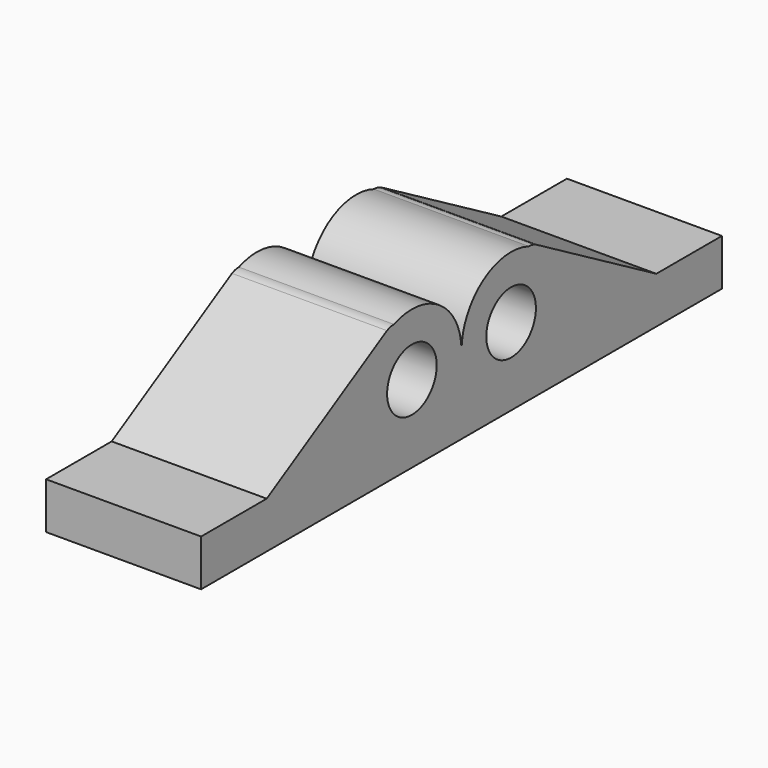
from build123d import *

# Parameters (mm, degrees)
CYLINDER033_R             = 2
CYLINDER033_DEPTH         = 10
CYLINDER031_R             = 2
CYLINDER031_DEPTH         = 10
CYLINDER032_R             = 1
CYLINDER032_DEPTH         = 10
BOX031_W                  = 3
BOX031_H                  = 20
BOX031_DEPTH              = 10
BOX032_W                  = 1
BOX032_H                  = 15
BOX032_DEPTH              = 10
BOX032_PLACEMENT_ANGLE    = 30
BOX033_W                  = 3.3
BOX033_H                  = 8
BOX033_DEPTH              = 10
BOX033_PLACEMENT_ANGLE    = 30
CYLINDER029_R             = 2
CYLINDER029_DEPTH         = 10
CYLINDER030_R             = 4
CYLINDER030_DEPTH         = 10
FUSION024_PLACEMENT_ANGLE = 180
CYLINDER027_R             = 2
CYLINDER027_DEPTH         = 10
CYLINDER028_R             = 1
CYLINDER028_DEPTH         = 10
BOX028_W                  = 3
BOX028_H                  = 22
BOX028_DEPTH              = 10
BOX029_W                  = 1
BOX029_H                  = 15
BOX029_DEPTH              = 10
BOX029_PLACEMENT_ANGLE    = 30
BOX030_W                  = 3.3
BOX030_H                  = 8
BOX030_DEPTH              = 10
BOX030_PLACEMENT_ANGLE    = 30
CYLINDER025_R             = 2
CYLINDER025_DEPTH         = 10
CYLINDER026_R             = 4
CYLINDER026_DEPTH         = 10
FUSION026_PITCH_ANGLE     = 90


with BuildPart() as zylinder024:
    # Cylinder033 → Cylinder033 (new body)
    with BuildSketch(Plane(origin=(2, -7, 0), x_dir=(1, 0, 0), z_dir=(0, 0, 1))):
        Circle(CYLINDER033_R)
    extrude(amount=CYLINDER033_DEPTH)


with BuildPart() as zylinder022:
    # Cylinder031 → Cylinder031 (new body)
    with BuildSketch(Plane(origin=(2, -15, 0), x_dir=(1, 0, 0), z_dir=(0, 0, 1))):
        Circle(CYLINDER031_R)
    extrude(amount=CYLINDER031_DEPTH)


with BuildPart() as zylinder023:
    # Cylinder032 → Cylinder032 (new body)
    with BuildSketch(Plane(origin=(-2.73, -12.5, 0), x_dir=(1, 0, 0), z_dir=(0, 0, 1))):
        Circle(CYLINDER032_R)
    extrude(amount=CYLINDER032_DEPTH)


with BuildPart() as obj1:
    # Box031 → Box031 (new body)
    with BuildSketch(Plane(origin=(2, -28, 0), x_dir=(1, 0, 0), z_dir=(0, 0, 1))):
        with Locations((1.5, 10)):
            Rectangle(BOX031_W, BOX031_H)
    extrude(amount=BOX031_DEPTH)


with BuildPart() as obj2:
    # Box032 → Box032 (new body)
    with BuildSketch(Plane.XY):
        with Locations((0.5, 7.5)):
            Rectangle(BOX032_W, BOX032_H)
    extrude(amount=BOX032_DEPTH)


with BuildPart() as obj2_1:
    # Box032 placement: moved
    add(obj2.part.moved(Location((3.9, -26, 0))).rotate(Axis((3.9, -26, 0), (0, 0, 1)), BOX032_PLACEMENT_ANGLE))


with BuildPart() as obj3:
    # Box033 → Box033 (new body)
    with BuildSketch(Plane.XY):
        with Locations((1.65, 4)):
            Rectangle(BOX033_W, BOX033_H)
    extrude(amount=BOX033_DEPTH)


with BuildPart() as obj3_1:
    # Box033 placement: moved
    add(obj3.part.moved(Location((2, -21.5, 0))).rotate(Axis((2, -21.5, 0), (0, 0, 1)), BOX033_PLACEMENT_ANGLE))


with BuildPart() as zylinder020:
    # Cylinder029 → Cylinder029 (new body)
    with BuildSketch(Plane.XY):
        Circle(CYLINDER029_R)
    extrude(amount=CYLINDER029_DEPTH)


with BuildPart() as fusion024:
    # Cylinder030 → Cylinder030 (new body)
    with BuildSketch(Plane.XY):
        Circle(CYLINDER030_R)
    extrude(amount=CYLINDER030_DEPTH)

    # Cut010: cut Zylinder020
    add(zylinder020.part, mode=Mode.SUBTRACT)


with BuildPart() as fusion024_1:
    # Cut010 placement: moved
    add(fusion024.part.moved(Location((0, -11, 0))))

    # Fusion024: union Zylinder022, Zylinder023, obj1, obj2, obj3
    add(zylinder022.part)
    add(zylinder023.part)
    add(obj1.part)
    add(obj2_1.part)
    add(obj3_1.part)


with BuildPart() as fusion024_2:
    # Fusion024 placement: moved
    add(fusion024_1.part.moved(Location((0, -14, 10))).rotate(Axis((0, -14, 10), (1, 0, 0)), FUSION024_PLACEMENT_ANGLE))


with BuildPart() as zylinder018:
    # Cylinder027 → Cylinder027 (new body)
    with BuildSketch(Plane(origin=(2, -15, 0), x_dir=(1, 0, 0), z_dir=(0, 0, 1))):
        Circle(CYLINDER027_R)
    extrude(amount=CYLINDER027_DEPTH)


with BuildPart() as zylinder019:
    # Cylinder028 → Cylinder028 (new body)
    with BuildSketch(Plane(origin=(-2.73, -12.5, 0), x_dir=(1, 0, 0), z_dir=(0, 0, 1))):
        Circle(CYLINDER028_R)
    extrude(amount=CYLINDER028_DEPTH)


with BuildPart() as obj4:
    # Box028 → Box028 (new body)
    with BuildSketch(Plane(origin=(2, -28, 0), x_dir=(1, 0, 0), z_dir=(0, 0, 1))):
        with Locations((1.5, 11)):
            Rectangle(BOX028_W, BOX028_H)
    extrude(amount=BOX028_DEPTH)


with BuildPart() as obj5:
    # Box029 → Box029 (new body)
    with BuildSketch(Plane.XY):
        with Locations((0.5, 7.5)):
            Rectangle(BOX029_W, BOX029_H)
    extrude(amount=BOX029_DEPTH)


with BuildPart() as obj5_1:
    # Box029 placement: moved
    add(obj5.part.moved(Location((3.9, -26, 0))).rotate(Axis((3.9, -26, 0), (0, 0, 1)), BOX029_PLACEMENT_ANGLE))


with BuildPart() as obj6:
    # Box030 → Box030 (new body)
    with BuildSketch(Plane.XY):
        with Locations((1.65, 4)):
            Rectangle(BOX030_W, BOX030_H)
    extrude(amount=BOX030_DEPTH)


with BuildPart() as obj6_1:
    # Box030 placement: moved
    add(obj6.part.moved(Location((2, -21.5, 0))).rotate(Axis((2, -21.5, 0), (0, 0, 1)), BOX030_PLACEMENT_ANGLE))


with BuildPart() as zylinder016:
    # Cylinder025 → Cylinder025 (new body)
    with BuildSketch(Plane.XY):
        Circle(CYLINDER025_R)
    extrude(amount=CYLINDER025_DEPTH)


with BuildPart() as fusion026:
    # Cylinder026 → Cylinder026 (new body)
    with BuildSketch(Plane.XY):
        Circle(CYLINDER026_R)
    extrude(amount=CYLINDER026_DEPTH)

    # Cut009: cut Zylinder016
    add(zylinder016.part, mode=Mode.SUBTRACT)


with BuildPart() as fusion026_1:
    # Cut009 placement: moved
    add(fusion026.part.moved(Location((0, -11, 0))))

    # Fusion023: union Zylinder018, Zylinder019, obj4, obj5, obj6
    add(zylinder018.part)
    add(zylinder019.part)
    add(obj4.part)
    add(obj5_1.part)
    add(obj6_1.part)

    # Fusion025: union Fusion024
    add(fusion024_2.part)

    # Fusion026: union Zylinder024
    add(zylinder024.part)


with BuildPart() as fusion026_2:
    # Fusion026 pitch: moved
    add(fusion026_1.part.rotate(Axis((0, 0, 0), (0, 1, 0)), FUSION026_PITCH_ANGLE))


with BuildPart() as fusion026_3:
    # Fusion026 placement: moved
    add(fusion026_2.part)


solid = fusion026_3.part
